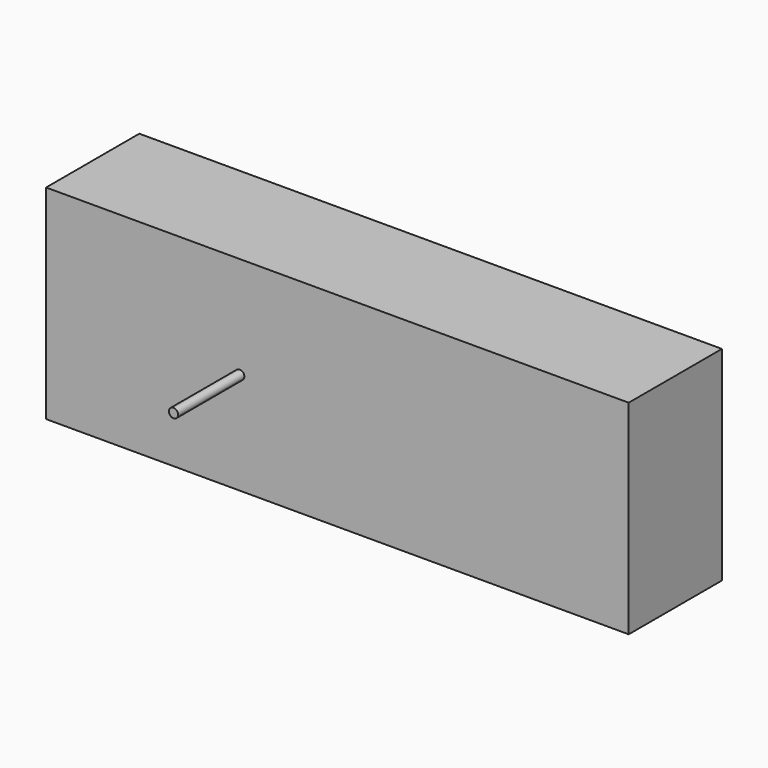
from build123d import *

# Parameters (mm, degrees)
BOX_W             = 100
BOX_H             = 20
BOX_DEPTH         = 35
CYLINDER001_R     = 0.795
CYLINDER001_DEPTH = 15


with BuildPart() as cube:
    # Box → Box (new body)
    with BuildSketch(Plane(origin=(500, -8.3245, -17.5), x_dir=(1, 0, 0), z_dir=(0, 0, 1))):
        with Locations((50, 10)):
            Rectangle(BOX_W, BOX_H)
    extrude(amount=BOX_DEPTH)


with BuildPart() as fusion:
    # Cylinder001 → Cylinder001 (new body)
    with BuildSketch(Plane(origin=(533.235, -7.5295, 0), x_dir=(1, 0, 0), z_dir=(0, -1, 0))):
        Circle(CYLINDER001_R)
    extrude(amount=CYLINDER001_DEPTH)

    # Fusion: union Cube
    add(cube.part)


solid = fusion.part
